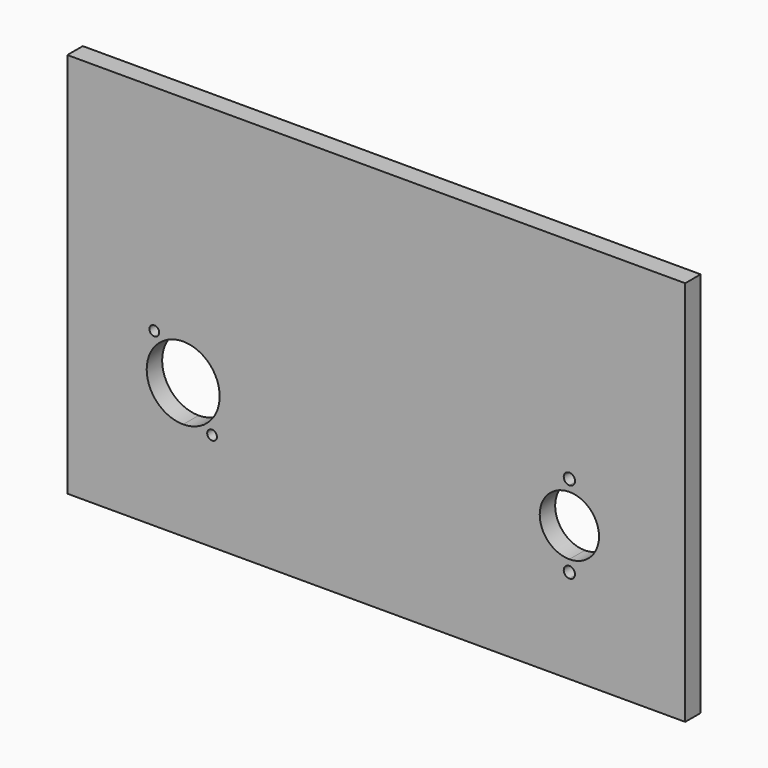
from build123d import *

# Parameters (mm, degrees)
F0_W     = 203.2
F0_H     = 127
F1_DEPTH = 6.35
F2_R     = 1.6
F3_DEPTH = 6.35


with BuildPart() as f1:
    # F0 (on Front) → F1 (new body)
    with BuildSketch(Plane.XZ):
        Rectangle(F0_W, F0_H)
    extrude(amount=F1_DEPTH)

    # F2 (on face) → F3 (cut, through all)
    with BuildSketch(Plane.XZ.offset(6.35)):
        with BuildLine():
            ThreePointArc((-51.5, -19.05), (-55.014719, -10.564719), (-63.5, -7.05))
            Line((-63.5, -7.05), (-63.5, -31.05))
            ThreePointArc((-63.5, -31.05), (-55.014719, -27.535281), (-51.5, -19.05))
        make_face()
        with BuildLine():
            Line((-63.5, -31.05), (-63.5, -7.05))
            ThreePointArc((-63.5, -7.05), (-75.5, -19.05), (-63.5, -31.05))
        make_face()
        with Locations((-73, -7.05)):
            Circle(F2_R)
        with Locations((-54, -31.05)):
            Circle(F2_R)
        with BuildLine():
            ThreePointArc((65.35, -5.55), (64.808148, -4.241852), (63.5, -3.7))
            Line((63.5, -3.7), (63.5, -7.4))
            ThreePointArc((63.5, -7.4), (64.808148, -6.858148), (65.35, -5.55))
        make_face()
        with BuildLine():
            ThreePointArc((65.35, -32.55), (64.808148, -31.241852), (63.5, -30.7))
            Line((63.5, -30.7), (63.5, -34.4))
            ThreePointArc((63.5, -34.4), (64.808148, -33.858148), (65.35, -32.55))
        make_face()
        with BuildLine():
            Line((63.5, -34.4), (63.5, -30.7))
            ThreePointArc((63.5, -30.7), (61.65, -32.55), (63.5, -34.4))
        make_face()
        with BuildLine():
            ThreePointArc((73.25, -19.05), (70.394291, -12.155709), (63.5, -9.3))
            Line((63.5, -9.3), (63.5, -28.8))
            ThreePointArc((63.5, -28.8), (70.394291, -25.944291), (73.25, -19.05))
        make_face()
        with BuildLine():
            Line((63.5, -28.8), (63.5, -9.3))
            ThreePointArc((63.5, -9.3), (53.75, -19.05), (63.5, -28.8))
        make_face()
        with BuildLine():
            Line((63.5, -7.4), (63.5, -3.7))
            ThreePointArc((63.5, -3.7), (61.65, -5.55), (63.5, -7.4))
        make_face()
    extrude(amount=-F3_DEPTH, mode=Mode.SUBTRACT)


solid = f1.part
